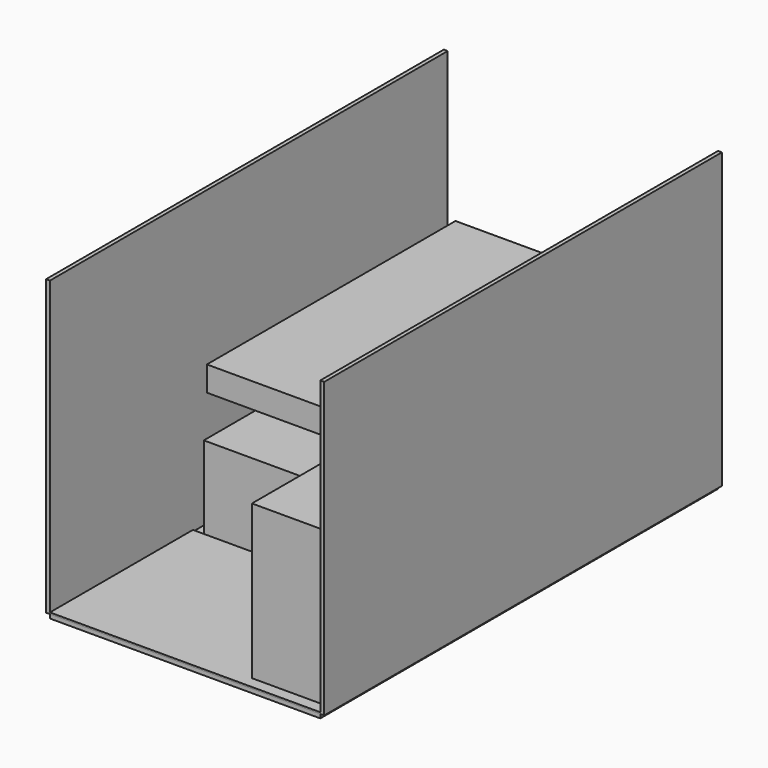
from build123d import *

# Parameters (mm, degrees)
F0_W      = 1740
F0_H      = 3200
F1_DEPTH  = 25
F2_W      = 3200
F2_H      = 1890
F4_DEPTH  = 25
F3_W      = 3200
F3_H      = 1890
F5_DEPTH  = 25
F6_W      = 1740
F6_H      = 1150
F7_DEPTH  = 10
F8_W      = 235
F8_H      = 800
F9_DEPTH  = 400
F10_W     = 235
F10_H     = 800
F11_DEPTH = 400
F13_W     = 1600
F13_H     = 2000
F14_DEPTH = 160
F15_W     = 500
F15_H     = 1000
F16_DEPTH = 1000
F17_W     = 920
F17_H     = 420
F18_DEPTH = 540


with BuildPart() as f1:
    # F0 (on Top) → F1 (new body)
    with BuildSketch(Plane.XY):
        with Locations((870, 1600)):
            Rectangle(F0_W, F0_H)
    extrude(amount=-F1_DEPTH)


with BuildPart() as f4:
    # F2 (on face) → F4 (new body)
    with BuildSketch(Plane.YZ.offset(1740)):
        with Locations((1600, 945)):
            Rectangle(F2_W, F2_H)
    extrude(amount=F4_DEPTH)


with BuildPart() as f5:
    # F3 (on face) → F5 (new body)
    with BuildSketch(Plane(origin=(0, 0, 0), x_dir=(0, -1, 0), z_dir=(-1, 0, 0))):
        with Locations((-1600, 945)):
            Rectangle(F3_W, F3_H)
    extrude(amount=F5_DEPTH)


with BuildPart() as f7:
    # F6 (on face) → F7 (new body)
    with BuildSketch(Plane.XY):
        with Locations((870, 575)):
            Rectangle(F6_W, F6_H)
    extrude(amount=F7_DEPTH)


with BuildPart() as f9:
    # F8 (on face) → F9 (new body)
    with BuildSketch(Plane.XY):
        with Locations((117.5, 2390)):
            Rectangle(F8_W, F8_H)
    extrude(amount=F9_DEPTH)


with BuildPart() as f11:
    # F10 (on face) → F11 (new body)
    with BuildSketch(Plane.XY):
        with Locations((1622.5, 2390)):
            Rectangle(F10_W, F10_H)
    extrude(amount=F11_DEPTH)


with BuildPart() as f14:
    # F13 (on offset) → F14 (new body)
    with BuildSketch(Plane.XY.offset(800)):
        with Locations((870, 2175)):
            Rectangle(F13_W, F13_H)
    extrude(amount=F14_DEPTH)


with BuildPart() as f16:
    # F15 (on Top) → F16 (new body)
    with BuildSketch(Plane.XY):
        with Locations((1490, 575)):
            Rectangle(F15_W, F15_H)
    extrude(amount=F16_DEPTH)


with BuildPart() as f18:
    # F17 (on face) → F18 (new body)
    with BuildSketch(Plane.XY):
        with Locations((530, 1360)):
            Rectangle(F17_W, F17_H)
    extrude(amount=F18_DEPTH)


solid = Compound([f1.part, f4.part, f5.part, f7.part, f9.part, f11.part, f14.part, f16.part, f18.part])
